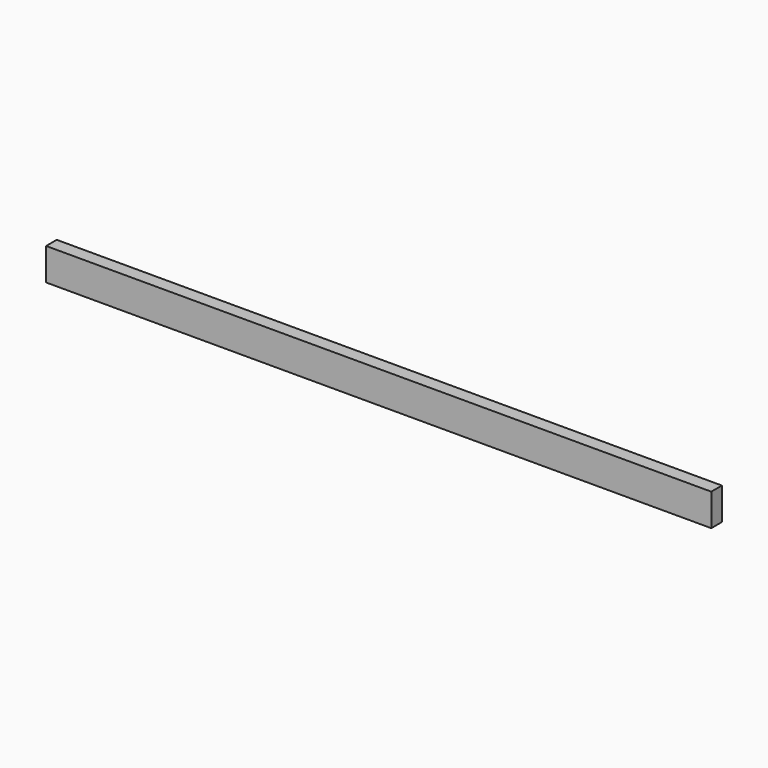
from build123d import *

# Parameters (mm, degrees)
SKETCH001_W = 3000
SKETCH001_H = 60
PAD_DEPTH   = 145


with BuildPart() as part:
    # Sketch001 → Pad (new body)
    with BuildSketch(Plane.XY):
        with Locations((-1500, 1527.641724)):
            Rectangle(SKETCH001_W, SKETCH001_H)
    extrude(amount=PAD_DEPTH)


solid = part.part
